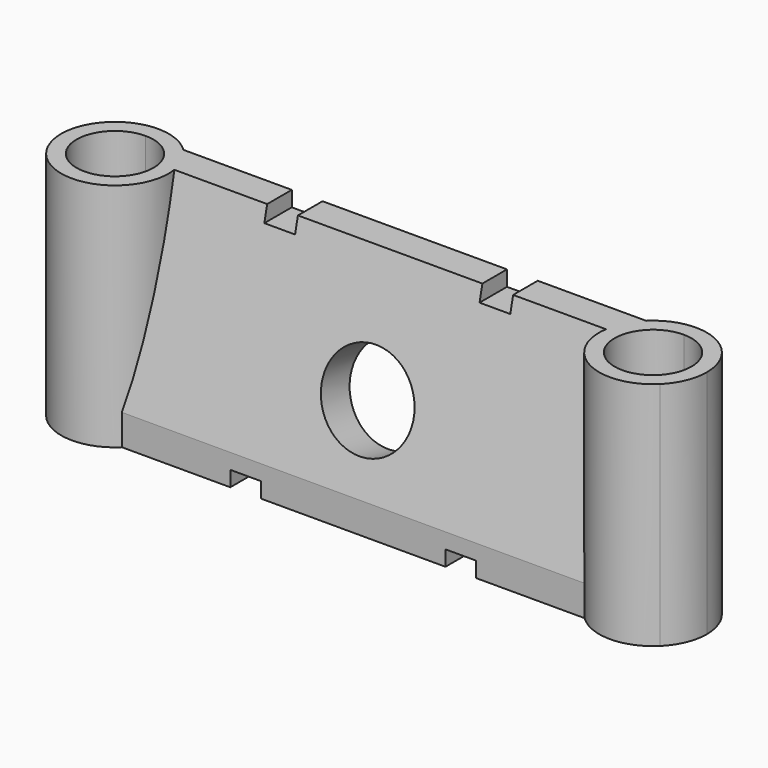
from build123d import *

# Parameters (mm, degrees)
F1_DEPTH = 15
F2_SIZE2 = 3
F2_SIZE  = 13
F3_SIZE2 = 3
F3_SIZE  = 13
F4_R     = 3
F5_DEPTH = 25
F6_W     = 2
F6_H     = 0.5
F6_H_2   = 2
F7_DEPTH = 1
F8_W     = 2
F8_H     = 0.5
F8_H_2   = 2
F9_DEPTH = 1


with BuildPart() as f1:
    # F0 (on Top) → F1 (new body)
    with BuildSketch(Plane.XY):
        with BuildLine():
            Line((-17.5, 2.5), (-15.0505102572, 2.5))
            ThreePointArc((-15.0505102572, 2.5), (-17.5, 3.5), (-19.9494897428, 2.5))
            Line((-19.9494897428, 2.5), (-17.5, 2.5))
        make_face()
        with BuildLine():
            ThreePointArc((-17.5, -2.5), (-20, 0), (-17.5, 2.5))
            Line((-17.5, 2.5), (-19.9494897428, 2.5))
            ThreePointArc((-19.9494897428, 2.5), (-20.7267021942, 1.3558735008), (-21, 0))
            ThreePointArc((-21, 0), (-20.7267021942, -1.3558735008), (-19.9494897428, -2.5))
            Line((-19.9494897428, -2.5), (-17.5, -2.5))
        make_face()
        with BuildLine():
            ThreePointArc((-19.9494897428, -2.5), (-17.5, -3.5), (-15.0505102572, -2.5))
            Line((-15.0505102572, -2.5), (-17.5, -2.5))
            Line((-17.5, -2.5), (-19.9494897428, -2.5))
        make_face()
        with BuildLine():
            ThreePointArc((-14, 0), (-14.2732978058, 1.3558735008), (-15.0505102572, 2.5))
            Line((-15.0505102572, 2.5), (-17.5, 2.5))
            ThreePointArc((-17.5, 2.5), (-15.732233047, 1.767766953), (-15, 0))
            ThreePointArc((-15, 0), (-15.732233047, -1.767766953), (-17.5, -2.5))
            Line((-17.5, -2.5), (-15.0505102572, -2.5))
            ThreePointArc((-15.0505102572, -2.5), (-14.2732978058, -1.3558735008), (-14, 0))
        make_face()
        with BuildLine():
            ThreePointArc((15.0505102572, -2.5), (14, 0), (15.0505102572, 2.5))
            Line((15.0505102572, 2.5), (-15.0505102572, 2.5))
            ThreePointArc((-15.0505102572, 2.5), (-14.2732978058, 1.3558735008), (-14, 0))
            ThreePointArc((-14, 0), (-14.2732978058, -1.3558735008), (-15.0505102572, -2.5))
            Line((-15.0505102572, -2.5), (15.0505102572, -2.5))
        make_face()
        with BuildLine():
            ThreePointArc((17.5, -2.5), (15, 0), (17.5, 2.5))
            Line((17.5, 2.5), (15.0505102572, 2.5))
            ThreePointArc((15.0505102572, 2.5), (14, 0), (15.0505102572, -2.5))
            Line((15.0505102572, -2.5), (17.5, -2.5))
        make_face()
        with BuildLine():
            Line((17.5, 2.5), (19.9494897428, 2.5))
            ThreePointArc((19.9494897428, 2.5), (17.5, 3.5), (15.0505102572, 2.5))
            Line((15.0505102572, 2.5), (17.5, 2.5))
        make_face()
        with BuildLine():
            ThreePointArc((21, 0), (20.7267021942, 1.3558735008), (19.9494897428, 2.5))
            Line((19.9494897428, 2.5), (17.5, 2.5))
            ThreePointArc((17.5, 2.5), (19.267766953, 1.767766953), (20, 0))
            ThreePointArc((20, 0), (19.267766953, -1.767766953), (17.5, -2.5))
            Line((17.5, -2.5), (19.9494897428, -2.5))
            ThreePointArc((19.9494897428, -2.5), (20.7267021942, -1.3558735008), (21, 0))
        make_face()
        with BuildLine():
            ThreePointArc((15.0505102572, -2.5), (17.5, -3.5), (19.9494897428, -2.5))
            Line((19.9494897428, -2.5), (17.5, -2.5))
            Line((17.5, -2.5), (15.0505102572, -2.5))
        make_face()
    extrude(amount=F1_DEPTH)

    # F2
    f2_edges = [f1.edges().sort_by_distance(p)[0] for p in [
        (0, -2.5, 15),
    ]]
    f2_side = f1.faces().sort_by_distance((0, -2.5, 7.5))[0]
    chamfer(f2_edges, length=F2_SIZE, length2=F2_SIZE2, reference=f2_side)

    # F3
    f3_edges = [f1.edges().sort_by_distance(p)[0] for p in [
        (0, 2.5, 0),
    ]]
    f3_side = f1.faces().sort_by_distance((0, 2.5, 7.5))[0]
    chamfer(f3_edges, length=F3_SIZE, length2=F3_SIZE2, reference=f3_side)

    # F4 (on face) → F5 (cut)
    with BuildSketch(Plane(origin=(0, -0.4747191011, 0.1095505618), x_dir=(-1, 0, 0), z_dir=(0, 0.9743911957, -0.2248595067))):
        with Locations((0, 6.6146171554)):
            Circle(F4_R)
    extrude(amount=-F5_DEPTH, mode=Mode.SUBTRACT)

    # F6 (on face) → F7 (cut)
    with BuildSketch(Plane.XY.offset(15)):
        with Locations((7, 0.25)):
            Rectangle(F6_W, F6_H)
        with Locations((-7, 0.25)):
            Rectangle(F6_W, F6_H)
        with Locations((-7, 1.5)):
            Rectangle(F6_W, F6_H_2)
        with Locations((-7, 2.75)):
            Rectangle(F6_W, F6_H)
        with Locations((7, 1.5)):
            Rectangle(F6_W, F6_H_2)
        with Locations((7, 0.25)):
            Rectangle(F6_W, F6_H)
        with Locations((7, 2.75)):
            Rectangle(F6_W, F6_H)
    extrude(amount=-F7_DEPTH, mode=Mode.SUBTRACT)

    # F8 (on face) → F9 (cut)
    with BuildSketch(Plane(origin=(0, 0, 0), x_dir=(1, 0, 0), z_dir=(0, 0, -1))):
        with Locations((7, 0.25)):
            Rectangle(F8_W, F8_H)
        with Locations((7, 1.5)):
            Rectangle(F8_W, F8_H_2)
        with Locations((7, 2.75)):
            Rectangle(F8_W, F8_H)
        with Locations((-7, 0.25)):
            Rectangle(F8_W, F8_H)
        with Locations((-7, 1.5)):
            Rectangle(F8_W, F8_H_2)
        with Locations((-7, 2.75)):
            Rectangle(F8_W, F8_H)
    extrude(amount=-F9_DEPTH, mode=Mode.SUBTRACT)


solid = f1.part
